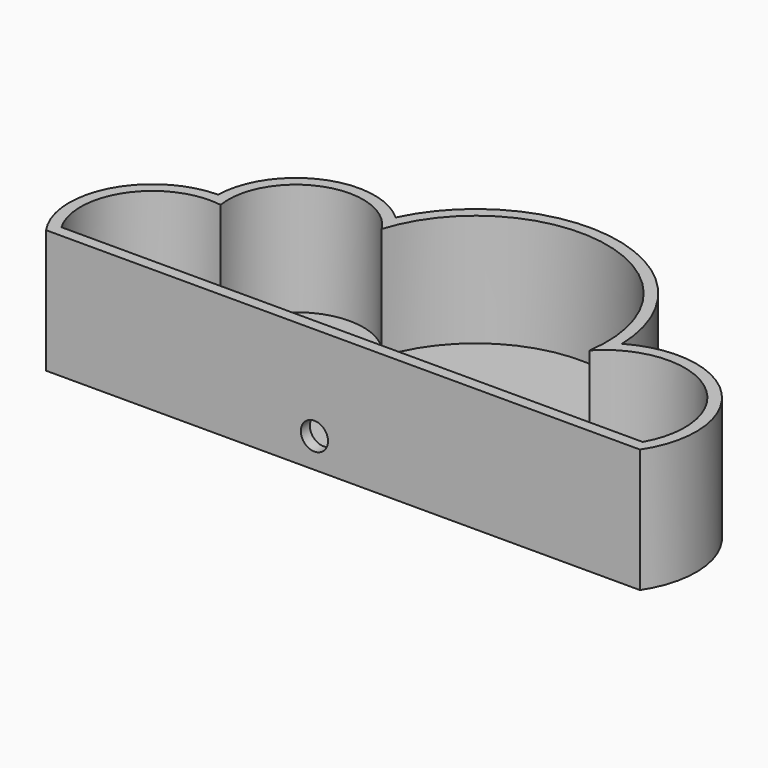
from build123d import *

# Parameters (mm, degrees)
F1_DEPTH = 25
F2_T     = -2.3
F4_D     = 5.5
F4_DEPTH = 12
F4_TIP   = 1.6523667023


with BuildPart() as f1:
    # F0 (on Top) → F1 (new body)
    with BuildSketch(Plane.XY):
        with BuildLine():
            ThreePointArc((-40.594752878, 26.4406520873), (-55.3794762118, 17.3284085078), (-54.2187498458, 0))
            Line((-54.2187498458, 0), (65.7812501542, 0))
            ThreePointArc((65.7812501542, 0), (63.8571902729, 23.0404540262), (40.9879274666, 26.4406520873))
            ThreePointArc((40.9879274666, 26.4406520873), (18.0492419713, 53.7154868807), (-13.8592263684, 37.8425680101))
            ThreePointArc((-13.8592263684, 37.8425680101), (-30.9125269305, 40.7835594412), (-40.594752878, 26.4406520873))
        make_face()
    extrude(amount=F1_DEPTH)

    # F2
    f2_openings = [f1.faces().sort_by_distance(p)[0] for p in [
        (5.721162, 21.020998, 25),
    ]]
    offset(amount=F2_T, openings=f2_openings, kind=Kind.INTERSECTION)

    # F4
    with Locations(Plane.XZ):
        with Locations((0, 6)):
            Hole(F4_D / 2, depth=F4_DEPTH)
            with Locations((0, 0, -(F4_DEPTH + F4_TIP / 2))):  # 118° drill point
                Cone(0, F4_D / 2, F4_TIP, mode=Mode.SUBTRACT)


solid = f1.part
